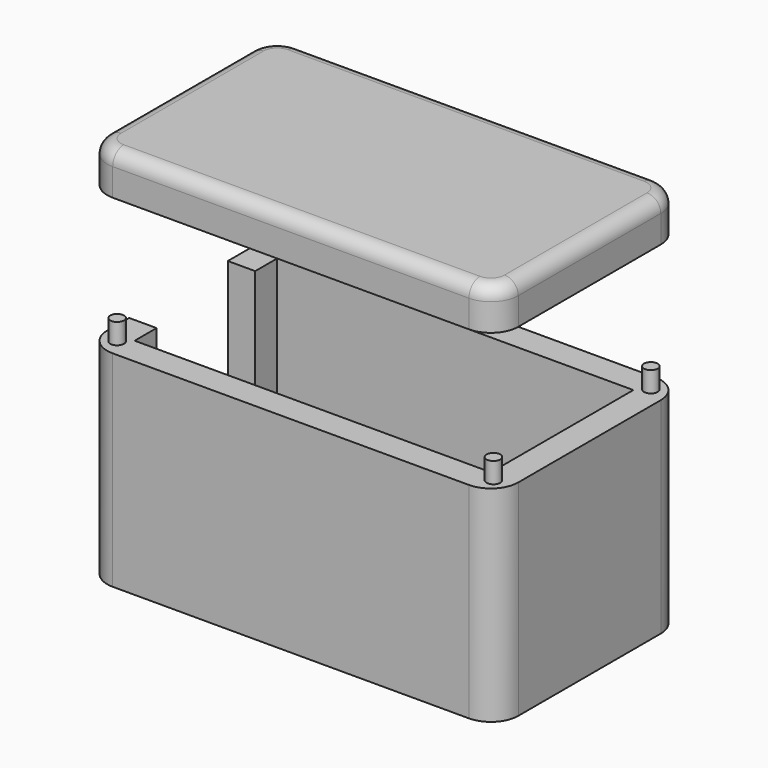
from build123d import *

# Parameters (mm, degrees)
F0_W      = 76.2
F0_H      = 43.18
F1_DEPTH  = 38.1
F2_T      = -5.08
F3_R      = 5.08
F4_R      = 1.27
F5_DEPTH  = 3.81
F7_W      = 66.04
F7_H      = 33.02
F8_DEPTH  = 7.62
F9_R      = 1.27
F10_DEPTH = 5.08
F11_R     = 2.54
F12_W     = 22.86
F12_H     = 27.94
F13_DEPTH = 5.08


with BuildPart() as f1:
    # F0 (on Top) → F1 (new body)
    with BuildSketch(Plane.XY):
        with Locations((38.1, 21.59)):
            Rectangle(F0_W, F0_H)
    extrude(amount=F1_DEPTH)

    # F2
    f2_openings = [f1.faces().sort_by_distance(p)[0] for p in [
        (38.1, 21.59, 38.1),
    ]]
    offset(amount=F2_T, openings=f2_openings)

    # F3
    f3_edges = [f1.edges().sort_by_distance(p)[0] for p in [
        (76.2, 43.18, 19.05),
        (76.2, 0, 19.05),
        (0, 0, 19.05),
        (0, 43.18, 19.05),
    ]]
    fillet(f3_edges, radius=F3_R)

    # F12 (on face) → F13 (cut, through all)
    with BuildSketch(Plane(origin=(0, 0, 0), x_dir=(0, -1, 0), z_dir=(-1, 0, 0))):
        with Locations((-21.59, 24.13)):
            Rectangle(F12_W, F12_H)
    extrude(amount=-F13_DEPTH, mode=Mode.SUBTRACT)


with BuildPart() as f5:
    # F4 (on face) → F5 (new body)
    with BuildSketch(Plane.XY.offset(38.1)):
        with Locations((3.2183568498, 3.3520287093)):
            Circle(F4_R)
    extrude(amount=F5_DEPTH)


with BuildPart() as f5b:
    # F4 (on face) → F5, piece 2 (new body)
    with BuildSketch(Plane.XY.offset(38.1)):
        with Locations((3.2183568498, 39.8279712907)):
            Circle(F4_R)
    extrude(amount=F5_DEPTH)


with BuildPart() as f5c:
    # F4 (on face) → F5, piece 3 (new body)
    with BuildSketch(Plane.XY.offset(38.1)):
        with Locations((72.9816431502, 3.3520287093)):
            Circle(F4_R)
    extrude(amount=F5_DEPTH)


with BuildPart() as f5d:
    # F4 (on face) → F5, piece 4 (new body)
    with BuildSketch(Plane.XY.offset(38.1)):
        with Locations((72.9816431502, 39.8279712907)):
            Circle(F4_R)
    extrude(amount=F5_DEPTH)


with BuildPart() as f8:
    # F7 (on offset) → F8 (new body)
    with BuildSketch(Plane.XY.offset(63.5)):
        with BuildLine():
            ThreePointArc((76.2, 38.1), (74.7121024484, 41.6921024484), (71.12, 43.18))
            Line((71.12, 43.18), (5.08, 43.18))
            ThreePointArc((5.08, 43.18), (1.4878975516, 41.6921024484), (0, 38.1))
            Line((0, 38.1), (0, 5.08))
            ThreePointArc((0, 5.08), (1.4878975516, 1.4878975516), (5.08, 0))
            Line((5.08, 0), (71.12, 0))
            ThreePointArc((71.12, 0), (74.7121024484, 1.4878975516), (76.2, 5.08))
            Line((76.2, 5.08), (76.2, 38.1))
        make_face()
        with Locations((38.1, 21.59)):
            Rectangle(F7_W, F7_H, mode=Mode.SUBTRACT)
        with Locations((38.1, 21.59)):
            Rectangle(F7_W, F7_H)
    extrude(amount=F8_DEPTH)

    # F9 (on face) → F10 (cut)
    with BuildSketch(Plane(origin=(0, 0, 63.5), x_dir=(1, 0, 0), z_dir=(0, 0, -1))):
        with Locations((3.2183568498, -3.3520287093)):
            Circle(F9_R)
        with Locations((72.9816431502, -3.3520287093)):
            Circle(F9_R)
        with Locations((72.9816431502, -39.8279712907)):
            Circle(F9_R)
        with Locations((3.2183568498, -39.8279712907)):
            Circle(F9_R)
    extrude(amount=-F10_DEPTH, mode=Mode.SUBTRACT)

    # F11
    f11_edges = [f8.edges().sort_by_distance(p)[0] for p in [
        (74.712102, 1.487898, 71.12),
        (76.2, 21.59, 71.12),
        (74.712102, 41.692102, 71.12),
        (38.1, 43.18, 71.12),
        (1.487898, 41.692102, 71.12),
        (0, 21.59, 71.12),
        (1.487898, 1.487898, 71.12),
        (38.1, 0, 71.12),
    ]]
    fillet(f11_edges, radius=F11_R)


solid = Compound([f1.part, f5.part, f5b.part, f5c.part, f5d.part, f8.part])
